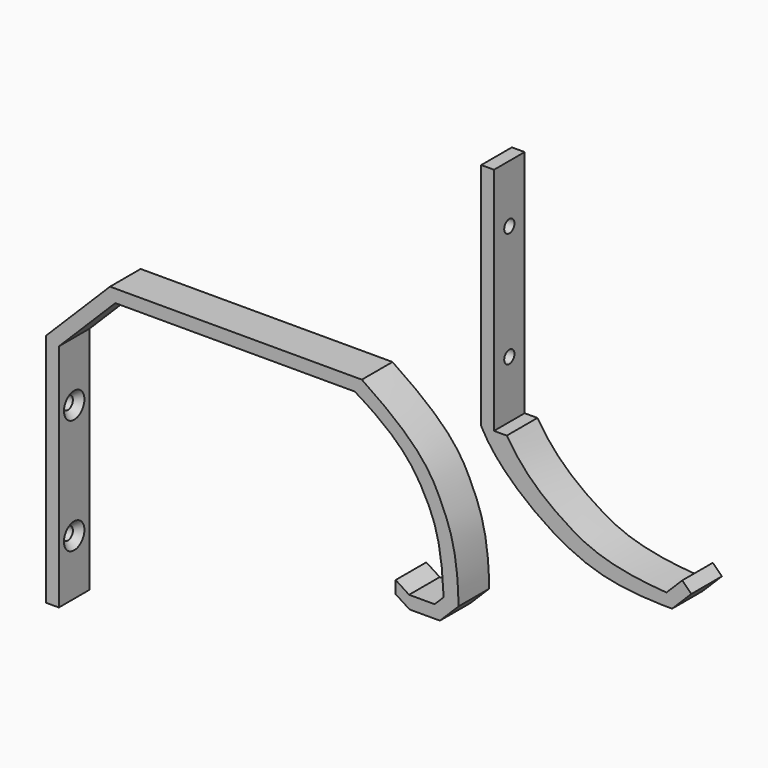
from build123d import *

# Parameters (mm, degrees)
PAD_DEPTH       = 12
SKETCH004_R     = 2
POCKET001_DEPTH = 4
CHAMFER_SIZE    = 2
PAD001_DEPTH    = 12
SKETCH003_R     = 2
POCKET_DEPTH    = 4


with BuildPart() as body:
    # Sketch → Pad (new body)
    with BuildSketch(Plane.XZ):
        with BuildLine():
            Line((7, 4.5), (15, 4.5))
            Line((15, 4.5), (17.828427, 7.328427))
            add(Edge.make_bspline(
                [(17.828427, 7.328427), (17.177904, 22.291481), (12.763813, 33.54799), (4.30425, 46.42391), (-10, 55)],
                knots=[0, 0, 0, 0, 0.5, 1, 1, 1, 1], degree=3))
            Line((-10, 55), (-85, 55))
            Line((-85, 55), (-102.67767, 37.32233))
            Line((-102.67767, 37.32233), (-102.67767, -34.67767))
            Line((-102.67767, -34.67767), (-106.67767, -34.67767))
            Line((-106.67767, -34.67767), (-106.67767, 38.979185))
            Line((-106.67767, 38.979185), (-86.656854, 59))
            Line((-86.656854, 59), (-7.78996, 59))
            add(Edge.make_bspline(
                [(-7.78996, 59), (10.463595, 46.883956), (17.306593, 33.544357), (22.277622, 21.26708), (22.487545, 6.330691)],
                knots=[0, 0, 0, 0, 0.5, 1, 1, 1, 1], degree=3))
            Line((22.487545, 6.330691), (16.656854, 0.5))
            Line((16.656854, 0.5), (7.137234, 0.5))
            Line((7.137234, 0.5), (2.802663, 3.305885))
            Line((2.802663, 3.305885), (2.802663, 7.21705))
            Line((2.802663, 7.21705), (7, 4.5))
        make_face()
    extrude(amount=PAD_DEPTH)

    # Sketch004 (on Face6 of Pad) → Pocket001 (cut)
    with BuildSketch(Plane(origin=(-102.67767, 0, 0), x_dir=(0, 0, 1), z_dir=(1, 0, 0))):
        with Locations((-17.338835, 6)):
            Circle(SKETCH004_R)
        with Locations((18.661165, 6)):
            Circle(SKETCH004_R)
    extrude(amount=-POCKET001_DEPTH, mode=Mode.SUBTRACT)

    # Chamfer
    chamfer_edges = [body.edges().sort_by_distance(p)[0] for p in [
        (-102.67767, -6, -19.338835),
        (-102.67767, -6, 16.661165),
    ]]
    chamfer(chamfer_edges, length=CHAMFER_SIZE)


with BuildPart() as body001:
    # Sketch002 → Pad001 (new body)
    with BuildSketch(Plane.XZ):
        with BuildLine():
            Line((50, 0), (54.949747, 4.949747))
            Line((54.949747, 4.949747), (57.778175, 2.12132))
            Line((57.778175, 2.12132), (51.775822, -3.881032))
            add(Edge.make_bspline(
                [(-8, 27), (-3.546138, 18.376946), (15.571963, 2.370328), (35.989889, -4.112703), (51.775822, -3.881032), (51.775822, -3.881032)],
                knots=[0, 0, 0, 0, 0.333333, 0.666667, 1, 1, 1, 1], degree=3))
            Line((-8, 27), (-8, 99))
            Line((-8, 99), (-4, 99))
            Line((-4, 99), (-4, 27))
            Line((-4, 27), (0, 27))
            add(Edge.make_bspline(
                [(0, 27), (5.466322, 18.21394), (18.938026, 7.660849), (31.969044, 1.346162), (50, 0)],
                knots=[0, 0, 0, 0, 0.5, 1, 1, 1, 1], degree=3))
        make_face()
    extrude(amount=PAD001_DEPTH)

    # Sketch003 (on Face7 of Pad001) → Pocket (cut)
    with BuildSketch(Plane(origin=(-4, 0, 0), x_dir=(0, 0, 1), z_dir=(1, 0, 0))):
        with Locations((81, 6)):
            Circle(SKETCH003_R)
        with Locations((45, 6)):
            Circle(SKETCH003_R)
    extrude(amount=-POCKET_DEPTH, mode=Mode.SUBTRACT)


with BuildPart() as body001_1:
    # Body001 placement: moved
    add(body001.part.moved(Location((0, 47, 0))))


solid = Compound([body.part, body001_1.part])
